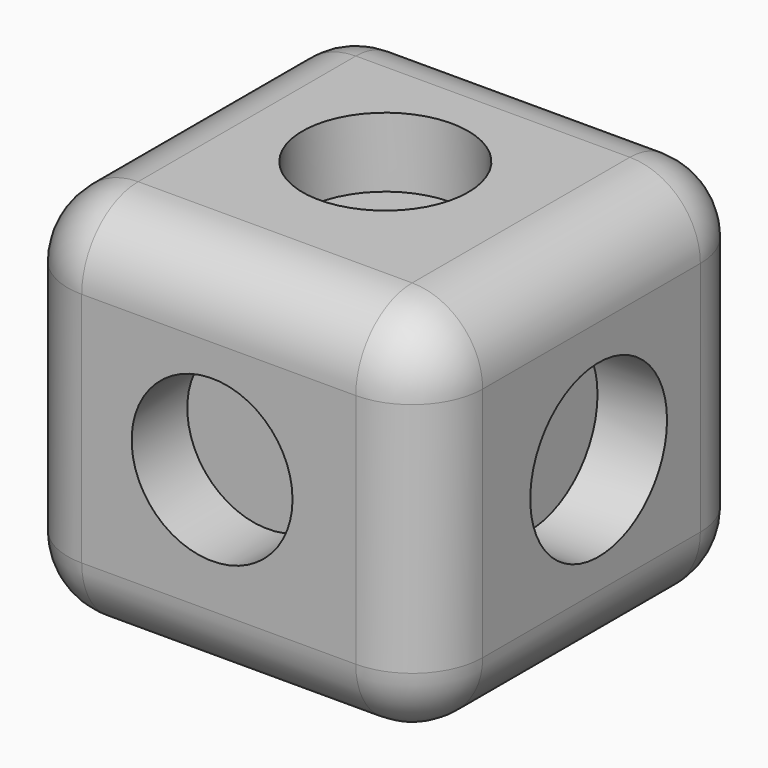
from build123d import *

# Parameters (mm, degrees)
F0_W     = 151.631288
F0_H     = 150.920756
F1_DEPTH = 137.922
F2_R     = 25.75483
F3_R     = 30.269305
F4_DEPTH = 25.4
F5_R     = 29.389096
F6_DEPTH = 25.4
F7_R     = 31.234323
F8_DEPTH = 25.4


with BuildPart() as f1:
    # F0 (on Top) → F1 (new body)
    with BuildSketch(Plane.XY):
        with Locations((0.510808, -0.572886)):
            Rectangle(F0_W, F0_H)
    extrude(amount=F1_DEPTH)

    # F2
    f2_edges = [f1.edges().sort_by_distance(p)[0] for p in [
        (0.510808, 74.887492, 137.922),
        (-75.304836, -0.572886, 137.922),
        (0.510808, -76.033264, 137.922),
        (76.326452, -0.572886, 137.922),
        (76.326452, -76.033264, 68.961),
        (76.326452, 74.887492, 68.961),
        (76.326452, -0.572886, 0),
        (-75.304836, -76.033264, 68.961),
        (0.510808, -76.033264, 0),
        (-75.304836, 74.887492, 68.961),
        (-75.304836, -0.572886, 0),
        (0.510808, 74.887492, 0),
    ]]
    fillet(f2_edges, radius=F2_R)

    # F3 (on face) → F4 (cut)
    with BuildSketch(Plane.XY.offset(137.922)):
        with Locations((-2.210455, 3.441766)):
            Circle(F3_R)
    extrude(amount=-F4_DEPTH, mode=Mode.SUBTRACT)

    # F5 (on face) → F6 (cut)
    with BuildSketch(Plane.XZ.offset(76.033264)):
        with Locations((-1.93036, 71.224585)):
            Circle(F5_R)
    extrude(amount=-F6_DEPTH, mode=Mode.SUBTRACT)

    # F7 (on face) → F8 (cut)
    with BuildSketch(Plane.YZ.offset(76.326452)):
        with Locations((2.6777, 67.931794)):
            Circle(F7_R)
    extrude(amount=-F8_DEPTH, mode=Mode.SUBTRACT)


solid = f1.part
